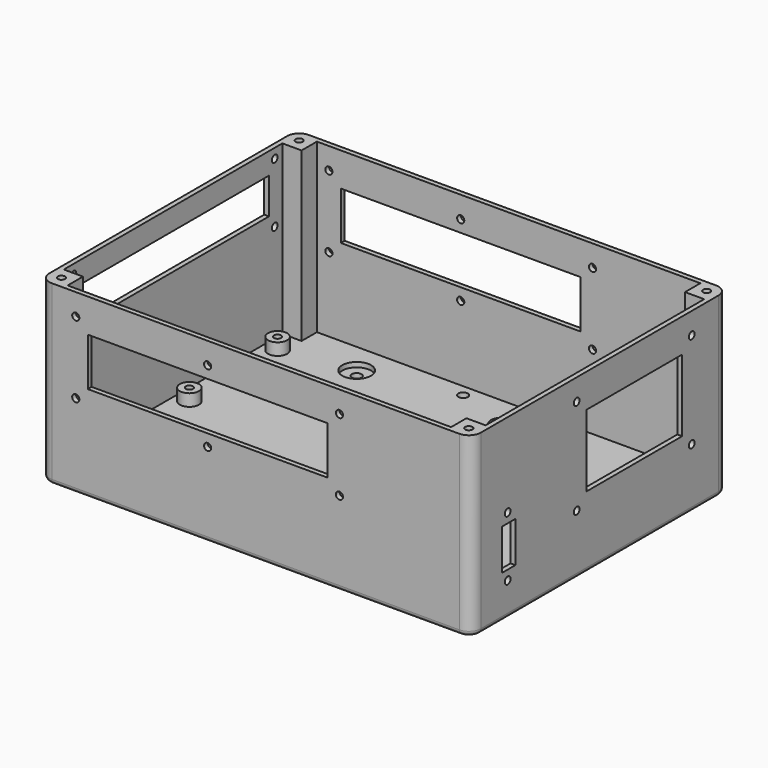
from build123d import *

# Parameters (mm, degrees)
SKETCH_W        = 180
SKETCH_H        = 134
SKETCH_R        = 2
SKETCH_W_2      = 10
SKETCH_H_2      = 82
PAD_DEPTH       = 4
SKETCH001_W     = 180
SKETCH001_H     = 2
SKETCH001_W_2   = 2
SKETCH001_H_2   = 130
PAD001_DEPTH    = 70
SKETCH002_R     = 6
SKETCH002_R_2   = 4
POCKET_DEPTH    = 2
SKETCH003_R     = 2
POCKET001_DEPTH = 4
SKETCH004_R     = 4
POCKET002_DEPTH = 2
SKETCH005_R     = 1.5
SKETCH005_W     = 7
SKETCH005_H     = 17
SKETCH005_W_2   = 50
SKETCH005_H_2   = 30
POCKET003_DEPTH = 2
SKETCH006_W     = 10
SKETCH006_H     = 10
PAD002_DEPTH    = 70
SKETCH007_R     = 1.5
POCKET004_DEPTH = 10
FILLET_R        = 5
FILLET001_R     = 5
FILLET002_R     = 5
FILLET003_R     = 5
SKETCH008_R     = 1.5
SKETCH008_W     = 100
SKETCH008_H     = 20
POCKET005_DEPTH = 150
SKETCH009_R     = 4
SKETCH009_R_2   = 1.5
PAD003_DEPTH    = 5
SKETCH010_R     = 1.5
POCKET006_DEPTH = 4
SKETCH011_R     = 4
POCKET007_DEPTH = 2
SKETCH012_R     = 1.5
POCKET008_DEPTH = 2
FILLET004_R     = 2
SKETCH013_R     = 1.5
SKETCH013_W     = 100
SKETCH013_H     = 15
POCKET009_DEPTH = 2


with BuildPart() as part:
    # Sketch → Pad (new body)
    with BuildSketch(Plane.XY):
        with Locations((90, 67)):
            Rectangle(SKETCH_W, SKETCH_H)
        with Locations((37, 15)):
            Circle(SKETCH_R, mode=Mode.SUBTRACT)
        with Locations((37, 119)):
            Circle(SKETCH_R, mode=Mode.SUBTRACT)
        with Locations((97, 15)):
            Circle(SKETCH_R, mode=Mode.SUBTRACT)
        with Locations((97, 119)):
            Circle(SKETCH_R, mode=Mode.SUBTRACT)
        with Locations((168, 67)):
            Rectangle(SKETCH_W_2, SKETCH_H_2, mode=Mode.SUBTRACT)
    extrude(amount=PAD_DEPTH)

    # Sketch001 → Pad001 (new body)
    with BuildSketch(Plane.XY.offset(4)):
        with Locations((90, 1)):
            Rectangle(SKETCH001_W, SKETCH001_H)
        with Locations((90, 133)):
            Rectangle(SKETCH001_W, SKETCH001_H)
        with Locations((179, 67)):
            Rectangle(SKETCH001_W_2, SKETCH001_H_2)
        with Locations((1, 67)):
            Rectangle(SKETCH001_W_2, SKETCH001_H_2)
    extrude(amount=PAD001_DEPTH)

    # Sketch002 → Pocket (cut)
    with BuildSketch(Plane.XY.offset(4)):
        with Locations((37, 15)):
            Circle(SKETCH002_R)
        with Locations((97, 15)):
            Circle(SKETCH002_R_2)
        with Locations((37, 119)):
            Circle(SKETCH002_R)
        with Locations((97, 119)):
            Circle(SKETCH002_R_2)
    extrude(amount=-POCKET_DEPTH, mode=Mode.SUBTRACT)

    # Sketch003 → Pocket001 (cut)
    with BuildSketch(Plane.XY.offset(4)):
        with Locations((105, 7)):
            Circle(SKETCH003_R)
        with Locations((75, 7)):
            Circle(SKETCH003_R)
        with Locations((75, 127)):
            Circle(SKETCH003_R)
        with Locations((105, 127)):
            Circle(SKETCH003_R)
    extrude(amount=-POCKET001_DEPTH, mode=Mode.SUBTRACT)

    # Sketch004 → Pocket002 (cut)
    with BuildSketch(Plane(origin=(0, 0, 0), x_dir=(1, 0, 0), z_dir=(0, 0, -1))):
        with Locations((105, -7)):
            Circle(SKETCH004_R)
        with Locations((75, -7)):
            Circle(SKETCH004_R)
        with Locations((75, -127)):
            Circle(SKETCH004_R)
        with Locations((105, -127)):
            Circle(SKETCH004_R)
    extrude(amount=-POCKET002_DEPTH, mode=Mode.SUBTRACT)

    # Sketch005 → Pocket003 (cut)
    with BuildSketch(Plane.YZ.offset(180)):
        with Locations((55, 65)):
            Circle(SKETCH005_R)
        with Locations((115, 65)):
            Circle(SKETCH005_R)
        with Locations((55, 25)):
            Circle(SKETCH005_R)
        with Locations((115, 25)):
            Circle(SKETCH005_R)
        with Locations((19.5, 26.5)):
            Rectangle(SKETCH005_W, SKETCH005_H)
        with Locations((85, 45)):
            Rectangle(SKETCH005_W_2, SKETCH005_H_2)
    extrude(amount=-POCKET003_DEPTH, mode=Mode.SUBTRACT)

    # Sketch006 → Pad002 (new body)
    with BuildSketch(Plane.XY.offset(4)):
        with Locations((5, 5)):
            Rectangle(SKETCH006_W, SKETCH006_H)
        with Locations((175, 5)):
            Rectangle(SKETCH006_W, SKETCH006_H)
        with Locations((5, 129)):
            Rectangle(SKETCH006_W, SKETCH006_H)
        with Locations((175, 129)):
            Rectangle(SKETCH006_W, SKETCH006_H)
    extrude(amount=PAD002_DEPTH)

    # Sketch007 → Pocket004 (cut)
    with BuildSketch(Plane.XY.offset(74)):
        with Locations((5, 5)):
            Circle(SKETCH007_R)
        with Locations((5, 129)):
            Circle(SKETCH007_R)
        with Locations((175, 129)):
            Circle(SKETCH007_R)
        with Locations((175, 5)):
            Circle(SKETCH007_R)
    extrude(amount=-POCKET004_DEPTH, mode=Mode.SUBTRACT)

    # Fillet
    fillet_edges = [part.edges().sort_by_distance(p)[0] for p in [
        (180, 0, 37),
    ]]
    fillet(fillet_edges, radius=FILLET_R)

    # Fillet001
    fillet001_edges = [part.edges().sort_by_distance(p)[0] for p in [
        (180, 134, 37),
    ]]
    fillet(fillet001_edges, radius=FILLET001_R)

    # Fillet002
    fillet002_edges = [part.edges().sort_by_distance(p)[0] for p in [
        (0, 134, 37),
    ]]
    fillet(fillet002_edges, radius=FILLET002_R)

    # Fillet003
    fillet003_edges = [part.edges().sort_by_distance(p)[0] for p in [
        (0, 0, 37),
    ]]
    fillet(fillet003_edges, radius=FILLET003_R)

    # Sketch008 → Pocket005 (cut)
    with BuildSketch(Plane.XZ):
        with Locations((15, 35)):
            Circle(SKETCH008_R)
        with Locations((15, 65)):
            Circle(SKETCH008_R)
        with Locations((125, 35)):
            Circle(SKETCH008_R)
        with Locations((125, 65)):
            Circle(SKETCH008_R)
        with Locations((70, 65)):
            Circle(SKETCH008_R)
        with Locations((70, 35)):
            Circle(SKETCH008_R)
        with Locations((70, 50)):
            Rectangle(SKETCH008_W, SKETCH008_H)
    extrude(amount=-POCKET005_DEPTH, mode=Mode.SUBTRACT)

    # Sketch009 → Pad003 (new body)
    with BuildSketch(Plane.XY.offset(4)):
        with Locations((8, 114)):
            Circle(SKETCH009_R)
        with Locations((8, 114)):
            Circle(SKETCH009_R_2, mode=Mode.SUBTRACT)
        with Locations((8, 68)):
            Circle(SKETCH009_R)
        with Locations((8, 68)):
            Circle(SKETCH009_R_2, mode=Mode.SUBTRACT)
        with Locations((8, 22)):
            Circle(SKETCH009_R)
        with Locations((8, 22)):
            Circle(SKETCH009_R_2, mode=Mode.SUBTRACT)
        with Locations((162, 125)):
            Circle(SKETCH009_R)
        with Locations((162, 125)):
            Circle(SKETCH009_R_2, mode=Mode.SUBTRACT)
        with Locations((162, 10)):
            Circle(SKETCH009_R)
        with Locations((162, 10)):
            Circle(SKETCH009_R_2, mode=Mode.SUBTRACT)
    extrude(amount=PAD003_DEPTH)

    # Sketch010 → Pocket006 (cut)
    with BuildSketch(Plane.XY.offset(4)):
        with Locations((150, 100)):
            Circle(SKETCH010_R)
        with Locations((150, 40)):
            Circle(SKETCH010_R)
    extrude(amount=-POCKET006_DEPTH, mode=Mode.SUBTRACT)

    # Sketch011 → Pocket007 (cut)
    with BuildSketch(Plane(origin=(0, 0, 0), x_dir=(1, 0, 0), z_dir=(0, 0, -1))):
        with Locations((150, -40)):
            Circle(SKETCH011_R)
        with Locations((150, -100)):
            Circle(SKETCH011_R)
    extrude(amount=-POCKET007_DEPTH, mode=Mode.SUBTRACT)

    # Sketch012 → Pocket008 (cut)
    with BuildSketch(Plane.YZ.offset(180)):
        with Locations((19, 39)):
            Circle(SKETCH012_R)
        with Locations((19, 14)):
            Circle(SKETCH012_R)
    extrude(amount=-POCKET008_DEPTH, mode=Mode.SUBTRACT)

    # Fillet004
    fillet004_edges = [part.edges().sort_by_distance(p)[0] for p in [
        (180, 67, 0),
    ]]
    fillet(fillet004_edges, radius=FILLET004_R)

    # Sketch013 → Pocket009 (cut)
    with BuildSketch(Plane(origin=(0, 0, 0), x_dir=(0, -1, 0), z_dir=(-1, 0, 0))):
        with Locations((-120, 45)):
            Circle(SKETCH013_R)
        with Locations((-15, 45)):
            Circle(SKETCH013_R)
        with Locations((-120, 70)):
            Circle(SKETCH013_R)
        with Locations((-15, 70)):
            Circle(SKETCH013_R)
        with Locations((-67, 57.5)):
            Rectangle(SKETCH013_W, SKETCH013_H)
    extrude(amount=-POCKET009_DEPTH, mode=Mode.SUBTRACT)


solid = part.part
